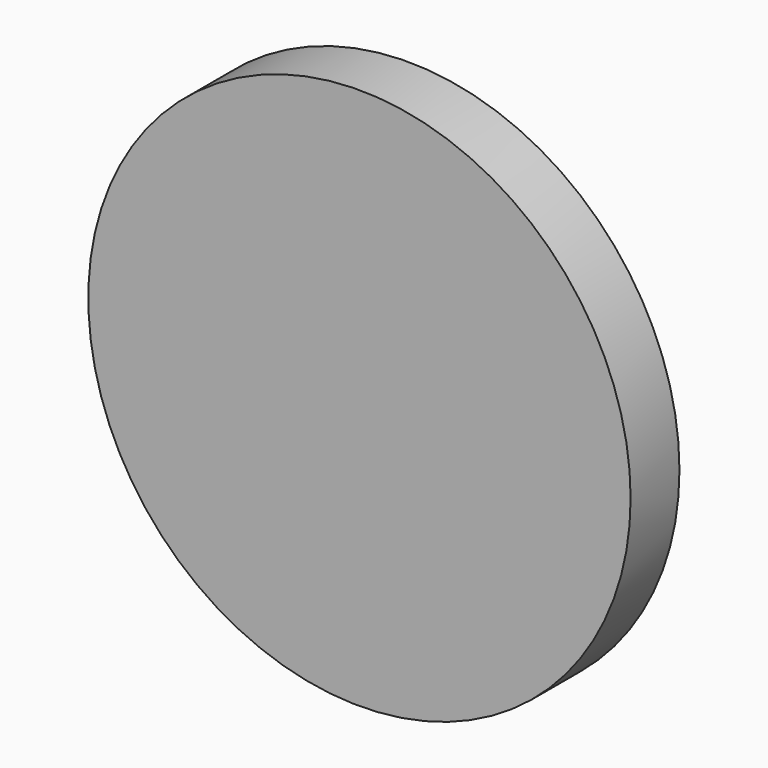
from build123d import *

# Parameters (mm, degrees)
F0_R     = 112.81193
F1_DEPTH = 25.4
F2_DEPTH = 25.4


with BuildPart() as f1:
    # F0 (on Front) → F1 (new body)
    with BuildSketch(Plane.XZ):
        Circle(F0_R)
        Circle(F0_R)
    extrude(amount=F1_DEPTH)

    # F0 (on Front) → F2 (join)
    with BuildSketch(Plane.XZ):
        Circle(F0_R)
    extrude(amount=F2_DEPTH)


solid = f1.part
